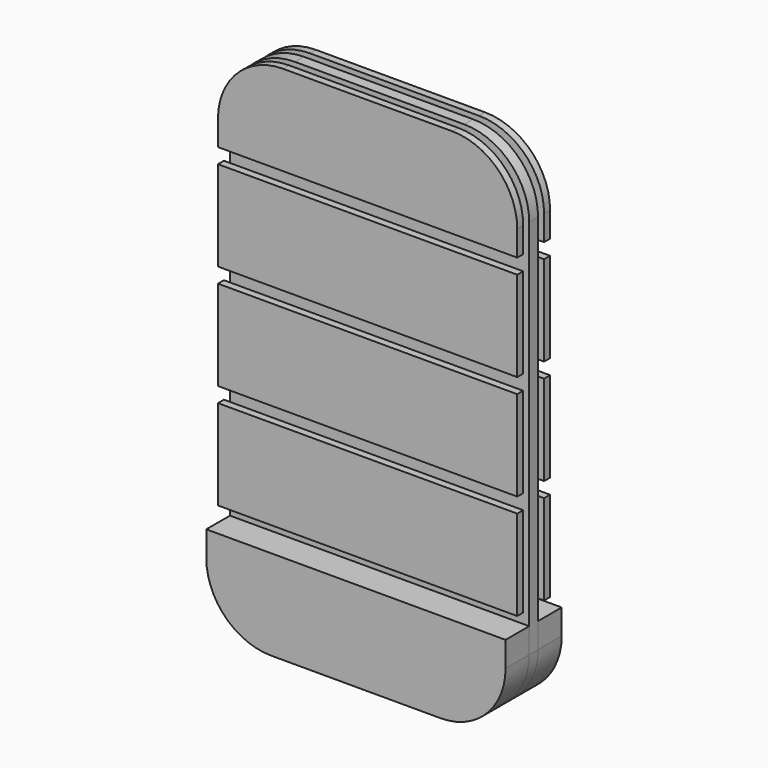
from build123d import *

# Parameters (mm, degrees)
F3_W      = 126.5
F3_H      = 76.2
F4_DEPTH  = 6.3
F5_W      = 126.5
F5_H      = 12.7
F6_DEPTH  = 9.35
F7_W      = 253
F7_H      = 76.2
F8_DEPTH  = 6.35
F10_DEPTH = 25
F12_DEPTH = 25


with BuildPart() as f4:
    # F3 (on Front) → F4 (new body)
    with BuildSketch(Plane.XZ):
        with BuildLine():
            Line((71.5, 249.29121), (0, 249.29121))
            Line((0, 249.29121), (0, 173.09121))
            Line((0, 173.09121), (126.5, 173.09121))
            Line((126.5, 173.09121), (126.5, 194.29121))
            ThreePointArc((126.5, 194.29121), (110.390873, 233.182083), (71.5, 249.29121))
        make_face()
        with BuildLine():
            Line((0, 173.09121), (0, 249.29121))
            Line((0, 249.29121), (-71.5, 249.29121))
            ThreePointArc((-71.5, 249.29121), (-110.390873, 233.182083), (-126.5, 194.29121))
            Line((-126.5, 194.29121), (-126.5, 173.09121))
            Line((-126.5, 173.09121), (0, 173.09121))
        make_face()
        with Locations((-63.25, -55.50879)):
            Rectangle(F3_W, F3_H)
        with Locations((63.25, -55.50879)):
            Rectangle(F3_W, F3_H)
        with Locations((-63.25, 33.39121)):
            Rectangle(F3_W, F3_H)
        with Locations((63.25, 33.39121)):
            Rectangle(F3_W, F3_H)
        with Locations((-63.25, 122.29121)):
            Rectangle(F3_W, F3_H)
        with Locations((63.25, 122.29121)):
            Rectangle(F3_W, F3_H)
    extrude(amount=F4_DEPTH)


with BuildPart() as f6:
    # F5 (on offset) → F6 (new body)
    with BuildSketch(Plane.XZ.offset(-6.35)):
        with BuildLine():
            Line((0, 249.29121), (-71.5, 249.29121))
            ThreePointArc((-71.5, 249.29121), (-110.390873, 233.182083), (-126.5, 194.29121))
            Line((-126.5, 194.29121), (-126.5, -93.60879))
            Line((-126.5, -93.60879), (0, -93.60879))
            Line((0, -93.60879), (0, 249.29121))
        make_face()
        with BuildLine():
            Line((71.5, 249.29121), (0, 249.29121))
            Line((0, 249.29121), (0, -93.60879))
            Line((0, -93.60879), (126.5, -93.60879))
            Line((126.5, -93.60879), (126.5, 194.29121))
            ThreePointArc((126.5, 194.29121), (110.390873, 233.182083), (71.5, 249.29121))
        make_face()
        with Locations((-63.25, -99.95879)):
            Rectangle(F5_W, F5_H)
        with Locations((63.25, -99.95879)):
            Rectangle(F5_W, F5_H)
        with BuildLine():
            Line((0, -106.30879), (-126.5, -106.30879))
            Line((-126.5, -106.30879), (-126.5, -127.50879))
            ThreePointArc((-126.5, -127.50879), (-110.390873, -166.399663), (-71.5, -182.50879))
            Line((-71.5, -182.50879), (0, -182.50879))
            Line((0, -182.50879), (0, -106.30879))
        make_face()
        with BuildLine():
            Line((126.5, -106.30879), (0, -106.30879))
            Line((0, -106.30879), (0, -182.50879))
            Line((0, -182.50879), (71.5, -182.50879))
            ThreePointArc((71.5, -182.50879), (110.390873, -166.399663), (126.5, -127.50879))
            Line((126.5, -127.50879), (126.5, -106.30879))
        make_face()
    extrude(amount=-F6_DEPTH)


with BuildPart() as f8:
    # F7 (on offset) → F8 (new body)
    with BuildSketch(Plane.XZ.offset(-22.05)):
        with BuildLine():
            ThreePointArc((126.5, 194.29121), (110.390873, 233.182083), (71.5, 249.29121))
            Line((71.5, 249.29121), (-71.5, 249.29121))
            ThreePointArc((-71.5, 249.29121), (-110.390873, 233.182083), (-126.5, 194.29121))
            Line((-126.5, 194.29121), (-126.5, 173.09121))
            Line((-126.5, 173.09121), (126.5, 173.09121))
            Line((126.5, 173.09121), (126.5, 194.29121))
        make_face()
        with Locations((0, 122.29121)):
            Rectangle(F7_W, F7_H)
        with Locations((0, 33.39121)):
            Rectangle(F7_W, F7_H)
        with Locations((0, -55.50879)):
            Rectangle(F7_W, F7_H)
    extrude(amount=-F8_DEPTH)


with BuildPart() as f10:
    # F9 (on face) → F10 (new body)
    with BuildSketch(Plane.XZ.offset(-6.35)):
        with BuildLine():
            Line((-126.5, -106.30879), (-126.5, -127.50879))
            ThreePointArc((-126.5, -127.50879), (-110.390873, -166.399663), (-71.5, -182.50879))
            Line((-71.5, -182.50879), (0, -182.50879))
            Line((0, -182.50879), (0, -106.30879))
            Line((0, -106.30879), (-126.5, -106.30879))
        make_face()
        with BuildLine():
            Line((0, -106.30879), (0, -182.50879))
            Line((0, -182.50879), (71.5, -182.50879))
            ThreePointArc((71.5, -182.50879), (110.390873, -166.399663), (126.5, -127.50879))
            Line((126.5, -127.50879), (126.5, -106.30879))
            Line((126.5, -106.30879), (0, -106.30879))
        make_face()
    extrude(amount=F10_DEPTH)


with BuildPart() as f12:
    # F11 (on face) → F12 (new body)
    with BuildSketch(Plane(origin=(0, 15.7, 0), x_dir=(-1, 0, 0), z_dir=(0, 1, 0))):
        with BuildLine():
            Line((-126.5, -106.30879), (-126.5, -127.50879))
            ThreePointArc((-126.5, -127.50879), (-110.390873, -166.399663), (-71.5, -182.50879))
            Line((-71.5, -182.50879), (71.5, -182.50879))
            ThreePointArc((71.5, -182.50879), (110.390873, -166.399663), (126.5, -127.50879))
            Line((126.5, -127.50879), (126.5, -106.30879))
            Line((126.5, -106.30879), (-126.5, -106.30879))
        make_face()
    extrude(amount=F12_DEPTH)


solid = Compound([f4.part, f6.part, f8.part, f10.part, f12.part])
